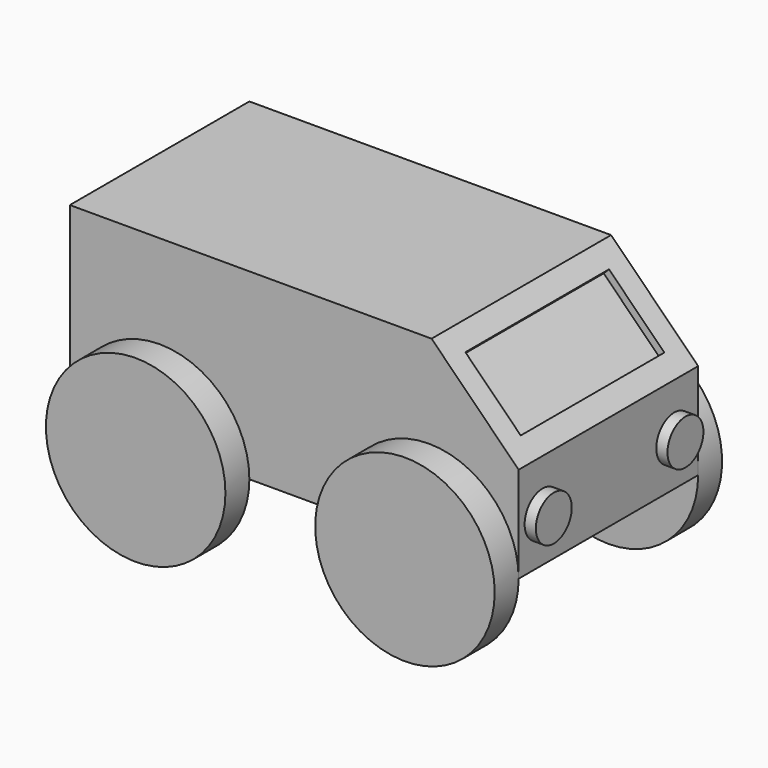
from build123d import *

# Parameters (mm, degrees)
F1_DEPTH = 1524
F2_R     = 152.4
F3_DEPTH = 76.2
F4_W     = 531.455103
F4_H     = 1219.2
F5_DEPTH = 50.8
F6_R     = 609.6
F7_DEPTH = 203.2
F8_R     = 609.6
F9_DEPTH = 203.2


with BuildPart() as f1:
    # F0 (on Front) → F1 (new body)
    with BuildSketch(Plane.XZ):
        Polygon((-1525.196942, 0), (0, 0), (1522.803058, 0), (1522.803058, 651.706862), (931.481404, 1243.028516), (-1525.196942, 1243.028516), align=None)
    extrude(amount=F1_DEPTH)

    # F2 (on face) → F3 (join)
    with BuildSketch(Plane.YZ.offset(1522.803058)):
        with Locations((-203.2, 304.8)):
            Circle(F2_R)
        with Locations((-1320.8, 304.8)):
            Circle(F2_R)
    extrude(amount=F3_DEPTH)

    # F4 (on face) → F5 (cut)
    with BuildSketch(Plane(origin=(1087.25496, 0, 1087.25496), x_dir=(0.707107, 0, -0.707107), z_dir=(0.707107, 0, 0.707107))):
        with Locations((197.830476, -762)):
            Rectangle(F4_W, F4_H)
    extrude(amount=-F5_DEPTH, mode=Mode.SUBTRACT)

    # F6 (on face) → F7 (join)
    with BuildSketch(Plane(origin=(0, 0, 0), x_dir=(-1, 0, 0), z_dir=(0, 1, 0))):
        with Locations((-913.203058, 0)):
            Circle(F6_R)
        with Locations((915.596942, 0)):
            Circle(F6_R)
    extrude(amount=F7_DEPTH)

    # F8 (on face) → F9 (join)
    with BuildSketch(Plane.XZ.offset(1524)):
        with Locations((-915.596942, 0)):
            Circle(F8_R)
        with Locations((913.203058, 0)):
            Circle(F8_R)
    extrude(amount=F9_DEPTH)


solid = f1.part
